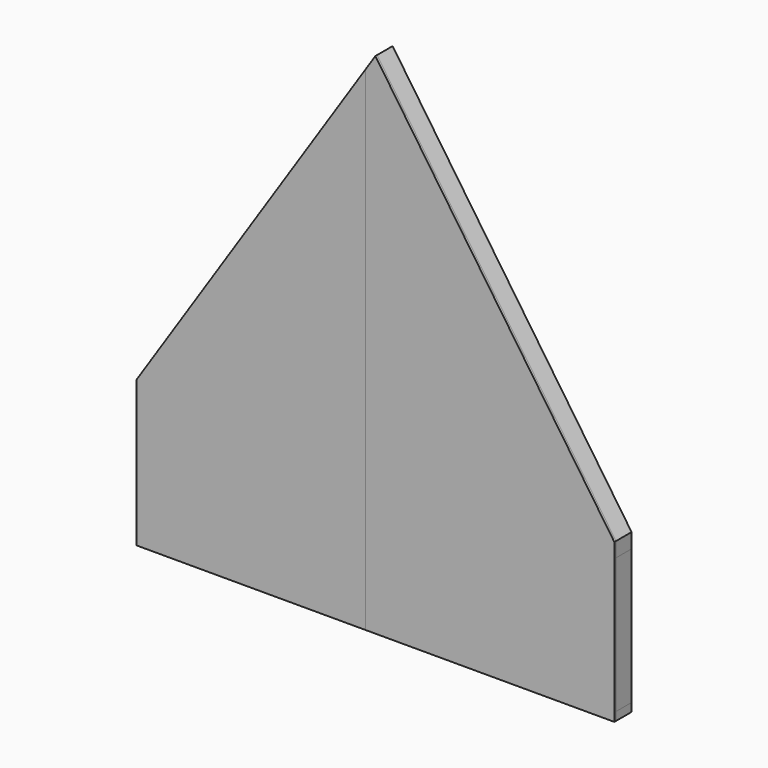
from build123d import *

# Parameters (mm, degrees)
F1_DEPTH = 88.9
F2_DEPTH = 88.9
F4_DEPTH = 9.525
F5_DEPTH = 9.525


with BuildPart() as f1:
    # F0 (on Front) → F1 (new body)
    with BuildSketch(Plane.XZ):
        Polygon((-1092.2, 577.7517291082), (-1092.2, 19.05), (-1054.1, 19.05), (-1054.1, 635.590283325), align=None)
    extrude(amount=F1_DEPTH)


with BuildPart() as f1b:
    # F0 (on Front) → F1, piece 2 (new body)
    with BuildSketch(Plane.XZ):
        Polygon((-685.8, 1194.6963074214), (-685.8, 19.05), (-647.7, 19.05), (-647.7, 1252.5348616383), align=None)
    extrude(amount=F1_DEPTH)


with BuildPart() as f1c:
    # F0 (on Front) → F1, piece 3 (new body)
    with BuildSketch(Plane.XZ):
        Polygon((-279.4, 1811.6408857347), (-279.4, 19.05), (-241.3, 19.05), (-241.3, 1869.4794399515), align=None)
    extrude(amount=F1_DEPTH)


with BuildPart() as f1d:
    # F0 (on Front) → F1, piece 4 (new body)
    with BuildSketch(Plane.XZ):
        Polygon((0, 2237.46607993), (0, 2305.05), (-88.9, 2170.093373494), (-88.9, 2100.833656819), (-88.9, 19.05), (0, 19.05), align=None)
    extrude(amount=F1_DEPTH)


with BuildPart() as f1e:
    # F0 (on Front) → F1, piece 5 (new body)
    with BuildSketch(Plane.XZ):
        Polygon((241.3, 19.05), (279.4, 19.05), (279.4, 1828.1125915579), (241.3, 1883.9335217905), align=None)
    extrude(amount=F1_DEPTH)


with BuildPart() as f1f:
    # F0 (on Front) → F1, piece 6 (new body)
    with BuildSketch(Plane.XZ):
        Polygon((647.7, 19.05), (685.8, 19.05), (685.8, 1232.689335744), (647.7, 1288.5102659765), align=None)
    extrude(amount=F1_DEPTH)


with BuildPart() as f1g:
    # F0 (on Front) → F1, piece 7 (new body)
    with BuildSketch(Plane.XZ):
        Polygon((1054.1, 19.05), (1092.2, 19.05), (1092.2, 637.26607993), (1054.1, 693.0870101626), align=None)
    extrude(amount=F1_DEPTH)


with BuildPart() as f2:
    # F0 (on Front) → F2 (new body)
    with BuildSketch(Plane.XZ):
        Polygon((-1054.1, 704.85), (-1054.1, 635.590283325), (-685.8, 1194.6963074214), (-647.7, 1252.5348616383), (-279.4, 1811.6408857347), (-241.3, 1869.4794399515), (-88.9, 2100.833656819), (-88.9, 2170.093373494), align=None)
        Polygon((-1092.2, 647.0114457831), (-1092.2, 577.7517291082), (-1054.1, 635.590283325), (-1054.1, 704.85), align=None)
    extrude(amount=F2_DEPTH)


with BuildPart() as f2b:
    # F0 (on Front) → F2, piece 2 (new body)
    with BuildSketch(Plane.XZ):
        Polygon((685.8, 1232.689335744), (1054.1, 693.0870101626), (1054.1, 704.85), (1092.2, 704.85), (0, 2305.05), (0, 2237.46607993), (241.3, 1883.9335217905), (279.4, 1828.1125915579), (647.7, 1288.5102659765), align=None)
        Polygon((1054.1, 693.0870101626), (1092.2, 637.26607993), (1092.2, 704.85), (1054.1, 704.85), align=None)
    extrude(amount=F2_DEPTH)


with BuildPart() as f2c:
    # F0 (on Front) → F2, piece 3 (new body)
    with BuildSketch(Plane.XZ):
        Polygon((-1092.2, -19.05), (1092.2, -19.05), (1092.2, 19.05), (1054.1, 19.05), (685.8, 19.05), (647.7, 19.05), (279.4, 19.05), (241.3, 19.05), (0, 19.05), (-88.9, 19.05), (-241.3, 19.05), (-279.4, 19.05), (-647.7, 19.05), (-685.8, 19.05), (-1054.1, 19.05), (-1092.2, 19.05), align=None)
    extrude(amount=F2_DEPTH)


with BuildPart() as f4:
    # F3 (on face) → F4 (new body)
    with BuildSketch(Plane.XZ.offset(88.9)):
        Polygon((-88.9, 19.05), (-1092.2, 19.05), (-1092.2, -19.05), (-44.45, -19.05), (-44.45, 19.05), align=None)
        Polygon((-1092.2, 577.7517291082), (-1092.2, 19.05), (-88.9, 19.05), (-88.9, 2170.093373494), (-1092.2, 647.0114457831), align=None)
        Polygon((-88.9, 2170.093373494), (-88.9, 19.05), (-44.45, 19.05), (-44.45, 2237.571686747), align=None)
    extrude(amount=F4_DEPTH)


with BuildPart() as f5:
    # F3 (on face) → F5 (new body)
    with BuildSketch(Plane.XZ.offset(88.9)):
        Polygon((0, 2305.05), (0, 19.05), (1092.2, 19.05), (1092.2, 637.26607993), (1092.2, 704.85), align=None)
        Polygon((-44.45, 19.05), (-44.45, -19.05), (1092.2, -19.05), (1092.2, 19.05), (0, 19.05), align=None)
        Polygon((-44.45, 2237.571686747), (-44.45, 19.05), (0, 19.05), (0, 2305.05), align=None)
    extrude(amount=F5_DEPTH)


solid = Compound([f1.part, f1b.part, f1c.part, f1d.part, f1e.part, f1f.part, f1g.part, f2.part, f2b.part, f2c.part, f4.part, f5.part])
